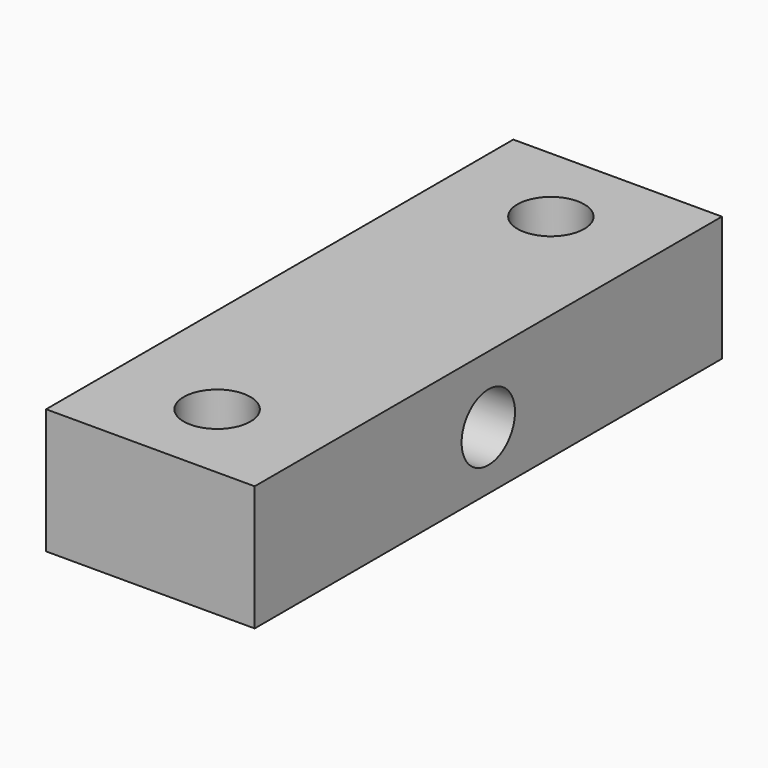
from build123d import *

# Parameters (mm, degrees)
SKETCH_W        = 28
SKETCH_H        = 6
SKETCH_R        = 1.6
PAD_DEPTH       = 5
POCKET_DEPTH    = 5.001
SKETCH007_R     = 1.6
POCKET001_DEPTH = 6.001


with BuildPart() as part:
    # Sketch → Pad (new body, symmetric)
    with BuildSketch(Plane.YZ):
        with Locations((0, 3)):
            Rectangle(SKETCH_W, SKETCH_H)
        with Locations((0, 2.8)):
            Circle(SKETCH_R, mode=Mode.SUBTRACT)
    extrude(amount=PAD_DEPTH, both=True)

    # Sketch006 → Pocket (cut, through all)
    with BuildSketch(Plane.YZ):
        Polygon((1.616581, 0), (3.233162, 2.8), (1.616581, 5.6), (-1.616581, 5.6), (-3.233162, 2.8), (-1.616581, 0), align=None)
    extrude(amount=-POCKET_DEPTH, mode=Mode.SUBTRACT)

    # Sketch007 → Pocket001 (cut, through all)
    with BuildSketch(Plane.XY):
        with Locations((0, 10)):
            Circle(SKETCH007_R)
        with Locations((0, -10)):
            Circle(SKETCH007_R)
    extrude(amount=POCKET001_DEPTH, mode=Mode.SUBTRACT)


with BuildPart() as part_1:
    # Body002 placement: moved
    add(part.part.moved(Location((0, 0, 8))))


solid = part_1.part
